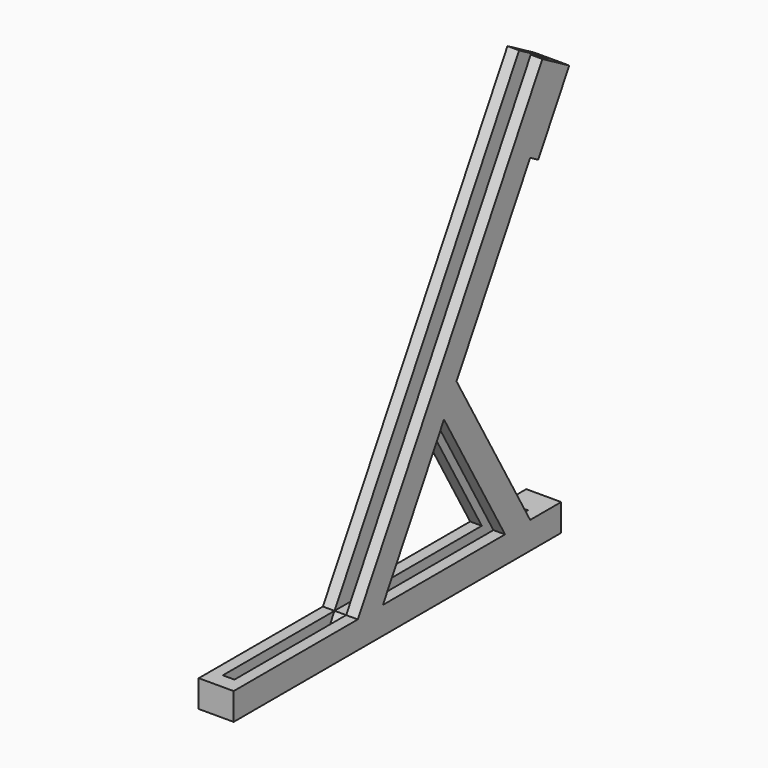
from build123d import *

# Parameters (mm, degrees)
F3_DEPTH = 38.1
F4_W     = 88.9
F4_H     = 88.9
F5_DEPTH = 19.05
F7_W     = 114.3
F7_H     = 254
F8_DEPTH = 38.1


with BuildPart() as f3:
    # F2 (on offset) → F3 (new body)
    with BuildSketch(Plane.YZ.offset(19.05)):
        Polygon((729.5686676615, 1263.65), (652.579009265, 1308.1), (-102.6528778619, 0), (-610.6528778619, 0), (-610.6528778619, -88.9), (729.5686676615, -88.9), (729.5686676615, 0), (602.5686676615, 0), (301.2843338307, 521.8397737194), align=None)
        Polygon((499.9157897996, 0), (0, 0), (249.9578948998, 432.9397737194), align=None, mode=Mode.SUBTRACT)
    extrude(amount=F3_DEPTH)

    # F4 (on Right) → F5 (join, through all)
    with BuildSketch(Plane.YZ):
        with Locations((685.1186676615, -44.45)):
            Rectangle(F4_W, F4_H)
        Polygon((-559.8528778619, 0), (-610.6528778619, 0), (-610.6528778619, -88.9), (-470.9528778619, -88.9), align=None)
        Polygon((0, -88.9), (0, 0), (-102.6528778619, 0), (-153.9793167929, -88.9), align=None)
    extrude(amount=F5_DEPTH)

    # F6: F3 across plane


with BuildPart() as f3_1:
    add(f3.part)
    add(f3.part.mirror(Plane.YZ))

    # F7 (on face) → F8 (join)
    with BuildSketch(Plane(origin=(0, 0, 0), x_dir=(-1, 0, 0), z_dir=(0, 0.8660254038, -0.5))):
        with Locations((0, 1332.1373353229)):
            Rectangle(F7_W, F7_H)
    extrude(amount=F8_DEPTH)


solid = f3_1.part
